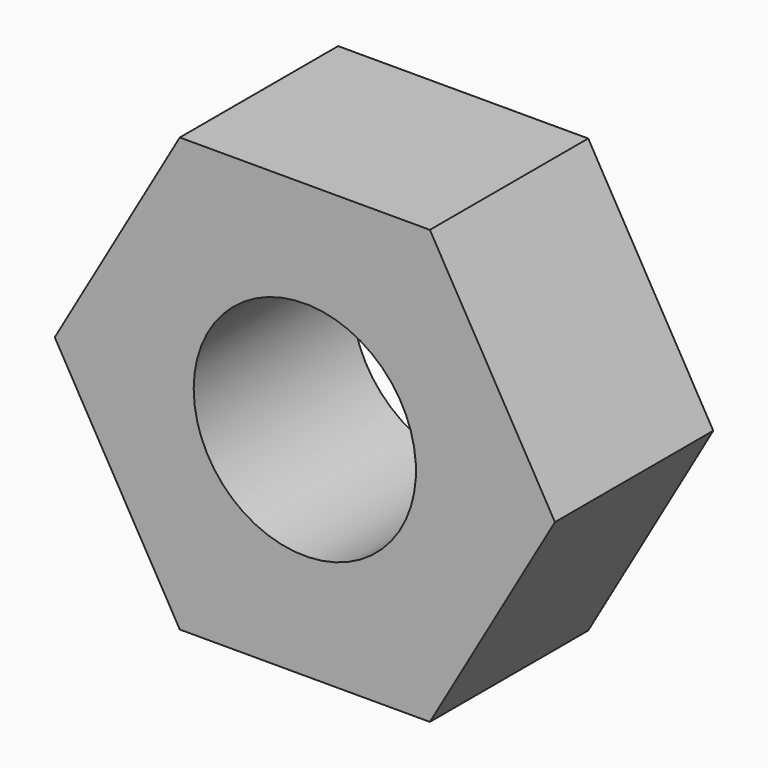
from build123d import *

# Parameters (mm, degrees)
F1_DEPTH = 46.99
F2_R     = 26.387041
F3_DEPTH = 46.991


with BuildPart() as f1:
    # F0 (on Front) → F1 (new body)
    with BuildSketch(Plane.XZ):
        Polygon((-29.690725, -51.425844), (29.690725, -51.425844), (59.38145, 0), (29.690725, 51.425844), (-29.690725, 51.425844), (-59.38145, 0), align=None)
    extrude(amount=-F1_DEPTH)

    # F2 (on face) → F3 (cut, through all)
    with BuildSketch(Plane(origin=(0, 46.99, 0), x_dir=(-1, 0, 0), z_dir=(0, 1, 0))):
        Circle(F2_R)
    extrude(amount=-F3_DEPTH, mode=Mode.SUBTRACT)


solid = f1.part
